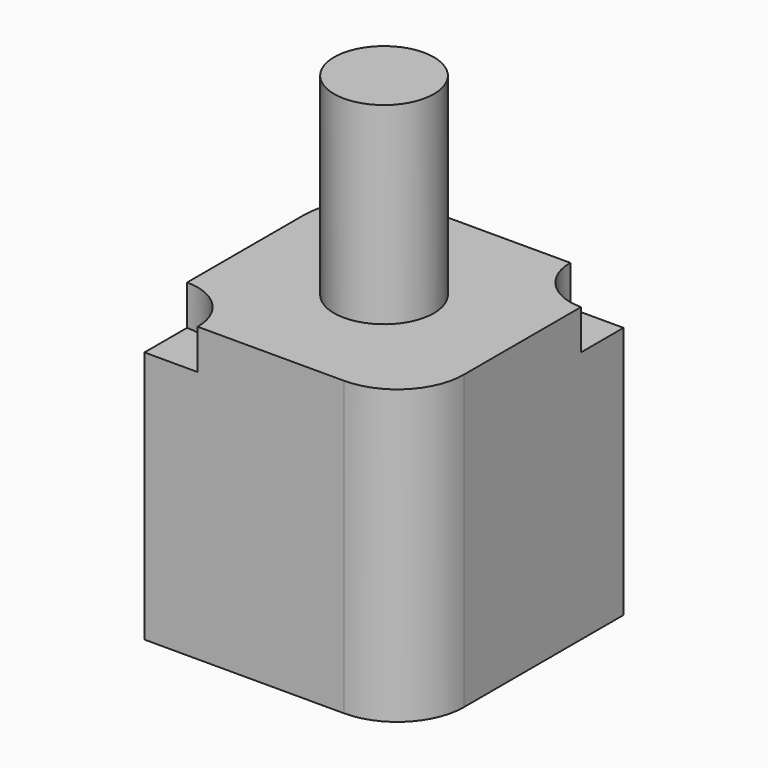
from build123d import *

# Parameters (mm, degrees)
F0_W     = 50.8
F0_H     = 50.8
F1_DEPTH = 55.88
F2_R     = 12.7
F4_DEPTH = 7.62
F5_R     = 9.525
F6_DEPTH = 36.83


with BuildPart() as f1:
    # F0 (on Top) → F1 (new body)
    with BuildSketch(Plane.XY):
        Rectangle(F0_W, F0_H)
    extrude(amount=F1_DEPTH)

    # F2
    f2_edges = [f1.edges().sort_by_distance(p)[0] for p in [
        (-25.4, 25.4, 27.94),
        (25.4, -25.4, 27.94),
    ]]
    fillet(f2_edges, radius=F2_R)

    # F3 (on face) → F4 (cut)
    with BuildSketch(Plane.XY.offset(55.88)):
        with BuildLine():
            Line((25.4, 25.4), (15.24, 25.4))
            ThreePointArc((15.24, 25.4), (18.215795, 18.215795), (25.4, 15.24))
            Line((25.4, 15.24), (25.4, 25.4))
        make_face()
        with BuildLine():
            ThreePointArc((-15.24, -25.4), (-18.215795, -18.215795), (-25.4, -15.24))
            Line((-25.4, -15.24), (-25.4, -25.4))
            Line((-25.4, -25.4), (-15.24, -25.4))
        make_face()
    extrude(amount=-F4_DEPTH, mode=Mode.SUBTRACT)

    # F5 (on face) → F6 (join)
    with BuildSketch(Plane.XY.offset(55.88)):
        Circle(F5_R)
    extrude(amount=F6_DEPTH)


solid = f1.part
